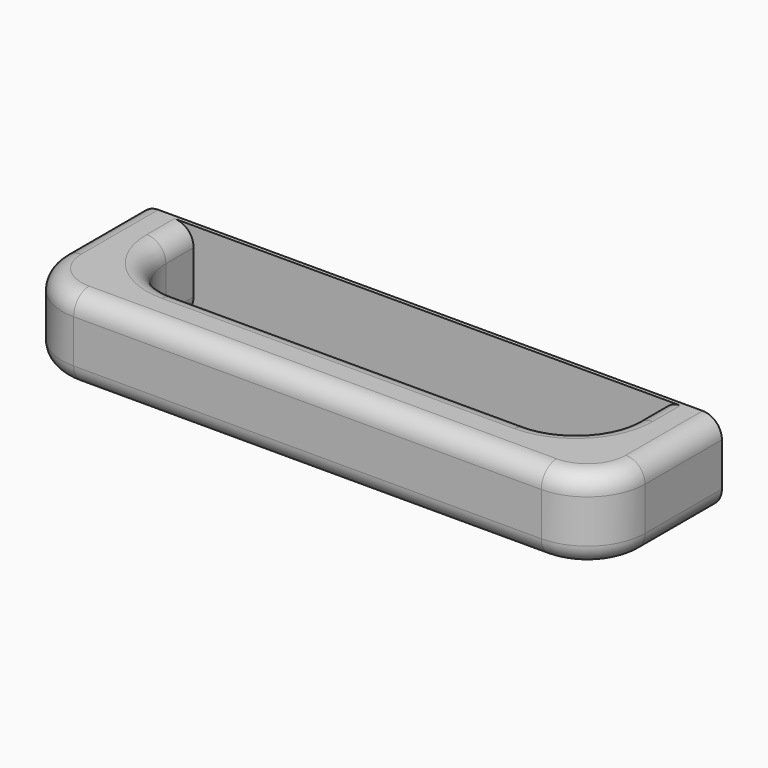
from build123d import *

# Parameters (mm, degrees)
SKETCH018_W     = 151.632408
SKETCH018_H     = 21.2714
PAD011_DEPTH    = 40
SKETCH019_W     = 121.632408
SKETCH019_H     = 24
POCKET007_DEPTH = 21.2724
FILLET010_R     = 15
FILLET011_R     = 5


with BuildPart() as part:
    # Sketch018 (on Face1 of CopyPocket006) → Pad011 (new body)
    with BuildSketch(Plane.XZ.offset(825)):
        with Locations((-597.5, -869.507206)):
            Rectangle(SKETCH018_W, SKETCH018_H)
    extrude(amount=PAD011_DEPTH)

    # Sketch019 (on Face4 of Pad011) → Pocket007 (cut, through all)
    with BuildSketch(Plane(origin=(0, 0, -858.871506), x_dir=(-1, 0, 0), z_dir=(0, 0, 1))):
        with Locations((597.5, 838)):
            Rectangle(SKETCH019_W, SKETCH019_H)
    extrude(amount=-POCKET007_DEPTH, mode=Mode.SUBTRACT)

    # Fillet010
    fillet010_edges = [part.edges().sort_by_distance(p)[0] for p in [
        (-673.316204, -865, -869.507206),
        (-521.683796, -865, -869.507206),
        (-658.316204, -850, -869.507206),
        (-536.683796, -850, -869.507206),
    ]]
    fillet(fillet010_edges, radius=FILLET010_R)

    # Fillet011
    fillet011_edges = [part.edges().sort_by_distance(p)[0] for p in [
        (-597.5, -850, -858.871506),
        (-597.5, -850, -880.142906),
        (-597.5, -865, -858.871506),
        (-597.5, -865, -880.142906),
    ]]
    fillet(fillet011_edges, radius=FILLET011_R)


solid = part.part
